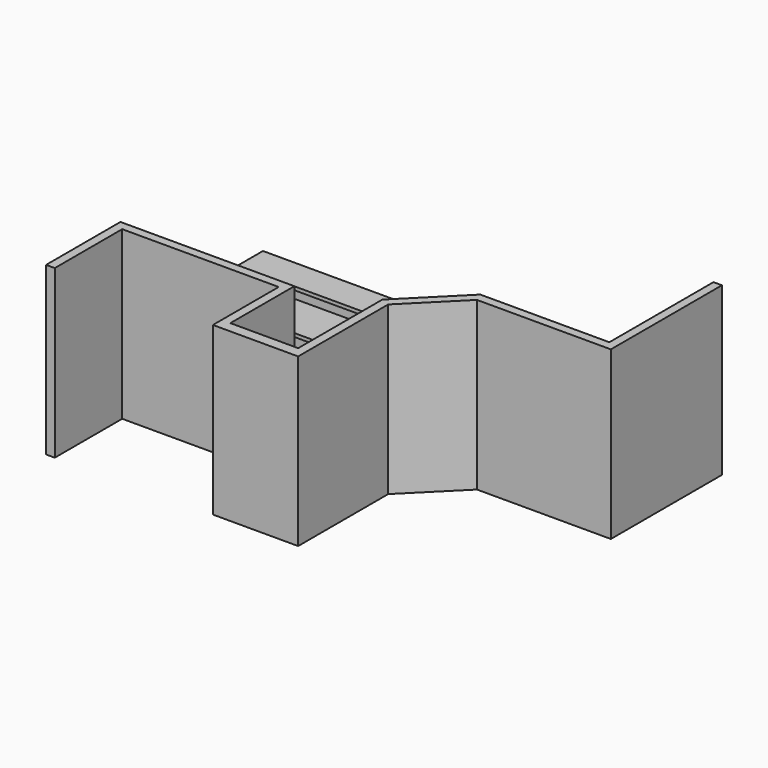
from build123d import *

# Parameters (mm, degrees)
F1_DEPTH = 863.6
F0_W     = 1828.8
F0_H     = 304.8
F2_DEPTH = 2438.4
F3_DEPTH = 1041.4
F5_DEPTH = 50.8
F6_W     = 1879.6
F6_H     = 330.2
F7_DEPTH = 50.8
F8_R     = 25.4
F9_R     = 12.7


with BuildPart() as f1:
    # F0 (on Top) → F1 (new body)
    with BuildSketch(Plane.XY):
        Polygon((1296.9782733917, 1433.0991125107), (2324.6778296471, 405.3995562553), (2755.7301234584, 836.4518500667), (1549.4828610144, 2042.6991125107), (-1141.4217266083, 2042.6991125107), (-1141.4217266083, 1433.0991125107), align=None)
    extrude(amount=F1_DEPTH)


with BuildPart() as f1b:
    # F0 (on Top) → F1, piece 2 (new body)
    with BuildSketch(Plane.XY):
        with Locations((26.9782733917, 152.4)):
            Rectangle(F0_W, F0_H)
    extrude(amount=F1_DEPTH)


with BuildPart() as f2:
    # F0 (on Top) → F2 (new body)
    with BuildSketch(Plane.XY):
        Polygon((-887.4217266083, 0), (-1243.0217266083, 0), (-1243.0217266083, -1357.8029119428), (-1116.0217266083, -1357.8029119428), (-1116.0217266083, -127), (1169.9782733917, -127), (1169.9782733917, -1328.09007782), (2414.5782733917, -1328.09007782), (2414.5782733917, 315.6948775786), (3134.9360625277, 1036.0526667146), (5090.587792672, 1036.0526667146), (5090.587792672, 3063.8273026744), (4967.0795944628, 3063.8273026744), (4967.0795944628, 1163.0526667146), (3082.3309401063, 1163.0526667146), (3061.0588315747, 1141.780558183), (2845.5326846691, 926.2544112774), (2755.7301234584, 836.4518500667), (2324.6778296471, 405.3995562553), (2287.5782733917, 368.3), (2287.5782733917, -1168.4), (1296.9782733917, -1168.4), (1296.9782733917, 0), (941.3782733917, 0), align=None)
    extrude(amount=F2_DEPTH)


with BuildPart() as f3:
    # F0 (on Top) → F3 (new body)
    with BuildSketch(Plane.XY):
        Polygon((1549.4828610144, 2042.6991125107), (2755.7301234584, 836.4518500667), (2845.5326846691, 926.2544112774), (1602.0879834357, 2169.6991125107), (-1141.4217266083, 2169.6991125107), (-1141.4217266083, 2042.6991125107), align=None)
    extrude(amount=F3_DEPTH)


with BuildPart() as f5:
    # F4 (on face) → F5 (new body)
    with BuildSketch(Plane.XY.offset(1041.4)):
        Polygon((1538.9618365301, 2017.2991125107), (2737.7696112162, 818.4913378245), (3061.0588315747, 1141.780558183), (1728.3402772471, 2474.4991125107), (-1141.4217266083, 2474.4991125107), (-1141.4217266083, 2017.2991125107), align=None)
    extrude(amount=F5_DEPTH)


with BuildPart() as f7:
    # F6 (on face) → F7 (new body)
    with BuildSketch(Plane.XY.offset(863.6)):
        with Locations((26.9782733917, 165.1)):
            Rectangle(F6_W, F6_H)
    extrude(amount=F7_DEPTH)

    # F8
    f8_edges = [f7.edges().sort_by_distance(p)[0] for p in [
        (-912.821727, 330.2, 889),
        (966.778273, 330.2, 889),
    ]]
    fillet(f8_edges, radius=F8_R)

    # F9
    f9_edges = [f7.edges().sort_by_distance(p)[0] for p in [
        (966.778273, 152.4, 914.4),
        (26.978273, 330.2, 914.4),
    ]]
    fillet(f9_edges, radius=F9_R)


with BuildPart() as f7b:
    # F6 (on face) → F7, piece 2 (new body)
    with BuildSketch(Plane.XY.offset(863.6)):
        Polygon((2324.6778296471, 405.3995562553), (2755.7301234584, 836.4518500667), (1549.4828610144, 2042.6991125107), (-1141.4217266083, 2042.6991125107), (-1141.4217266083, 1433.0991125107), (1296.9782733917, 1433.0991125107), align=None)
        Polygon((2288.7568051628, 369.4785317711), (2324.6778296471, 405.3995562553), (1296.9782733917, 1433.0991125107), (-1141.4217266083, 1433.0991125107), (-1141.4217266083, 1382.2991125107), (1275.9362244232, 1382.2991125107), align=None)
    extrude(amount=F7_DEPTH)


solid = Compound([f1.part, f1b.part, f2.part, f3.part, f5.part, f7.part, f7b.part])
